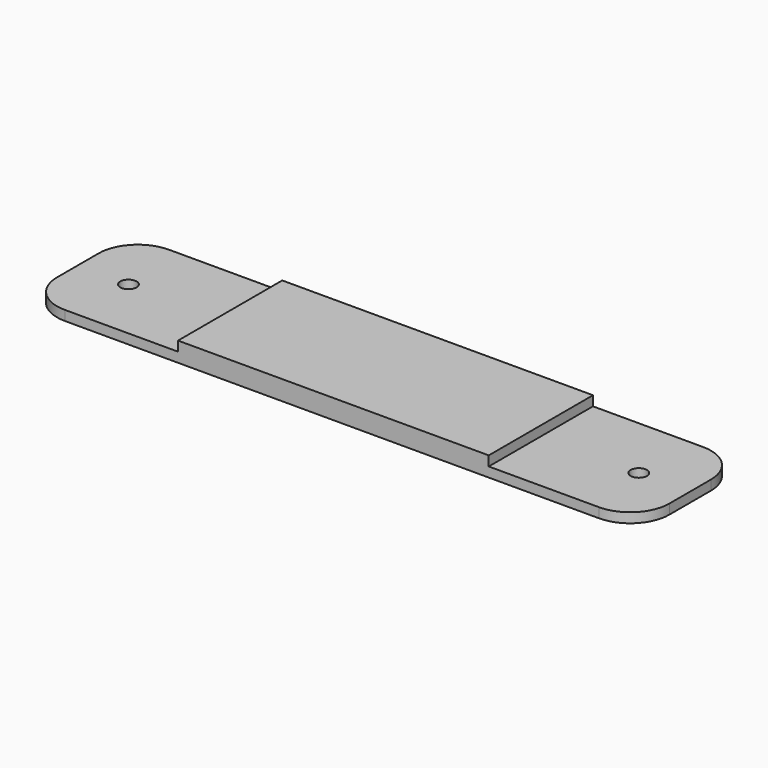
from build123d import *

# Parameters (mm, degrees)
SKETCH_W        = 94
SKETCH_H        = 20
EXTRUDE_DEPTH   = 3
SKETCH001_R     = 1.25
HOLE_DEPTH      = 3
FILLET_R        = 6
SKETCH002_W     = 23.4
SKETCH002_H     = 21
POCKET_DEPTH    = 1.5
SKETCH003_W     = 23.4
SKETCH003_H     = 21
POCKET001_DEPTH = 1.5


with BuildPart() as part:
    # Sketch → Extrude (new body)
    with BuildSketch(Plane.XY):
        with Locations((0.620003, 10.899999)):
            Rectangle(SKETCH_W, SKETCH_H)
    extrude(amount=EXTRUDE_DEPTH)

    # Sketch001 (on Face6 of BaseFeature) → Hole (cut)
    with BuildSketch(Plane.XY.offset(3)):
        with Locations((-38.549999, 10.83)):
            Circle(SKETCH001_R)
        with Locations((39.800001, 10.823599)):
            Circle(SKETCH001_R)
    extrude(amount=-HOLE_DEPTH, mode=Mode.SUBTRACT)

    # Fillet
    fillet_edges = [part.edges().sort_by_distance(p)[0] for p in [
        (-46.379997, 0.899999, 1.5),
        (-46.379997, 20.899999, 1.5),
        (47.620003, 20.899999, 1.5),
        (47.620003, 0.899999, 1.5),
    ]]
    fillet(fillet_edges, radius=FILLET_R)

    # Sketch002 (on Face5 of Fillet) → Pocket (cut)
    with BuildSketch(Plane.XY.offset(3)):
        with Locations((-34.701599, 10.700001)):
            Rectangle(SKETCH002_W, SKETCH002_H)
    extrude(amount=-POCKET_DEPTH, mode=Mode.SUBTRACT)

    # Sketch003 (on Face4 of Pocket) → Pocket001 (cut)
    with BuildSketch(Plane.XY.offset(3)):
        with Locations((36.4, 10.699637)):
            Rectangle(SKETCH003_W, SKETCH003_H)
    extrude(amount=-POCKET001_DEPTH, mode=Mode.SUBTRACT)


solid = part.part
